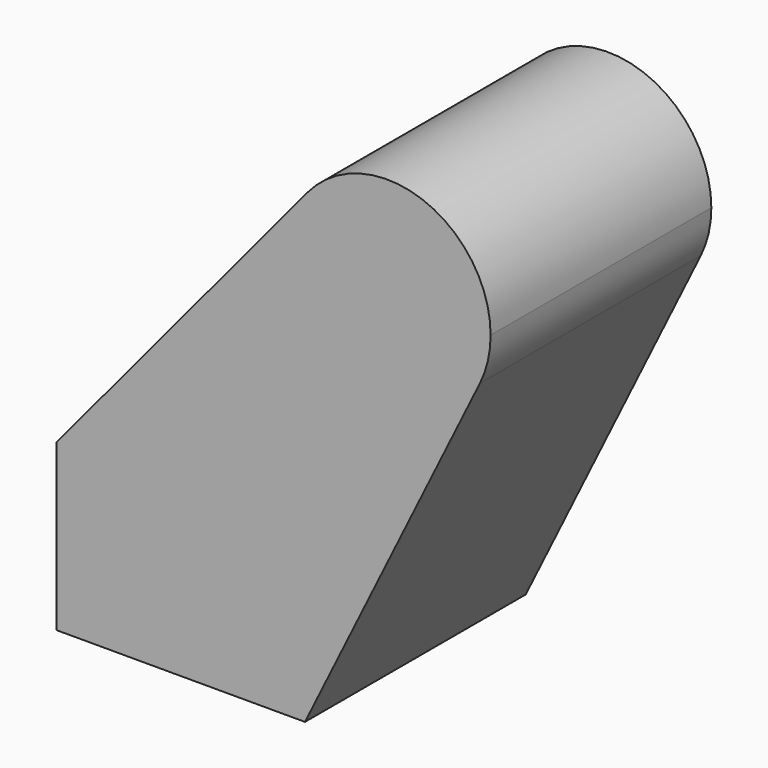
from build123d import *

# Parameters (mm, degrees)
F0_W     = 45.72
F0_H     = 30.48
F1_DEPTH = 25.4


with BuildPart() as f1:
    # F0 (on Front) → F1 (new body, symmetric)
    with BuildSketch(Plane.XZ):
        with BuildLine():
            Line((31.042586, 66.705277), (-15.161877, 11.197543))
            Line((-15.161877, 11.197543), (30.558123, 11.197543))
            Line((30.558123, 11.197543), (30.558123, -19.282457))
            Line((30.558123, -19.282457), (62.77227, 46.098145))
            ThreePointArc((62.77227, 46.098145), (35.30799, 38.541559), (31.042586, 66.705277))
        make_face()
        with Locations((7.698123, -4.042457)):
            Rectangle(F0_W, F0_H)
        with BuildLine():
            ThreePointArc((64.733943, 54.517858), (52.164092, 72.431824), (31.042586, 66.705277))
            ThreePointArc((31.042586, 66.705277), (35.30799, 38.541559), (62.77227, 46.098145))
            ThreePointArc((62.77227, 46.098145), (64.237044, 50.195251), (64.733943, 54.517858))
        make_face()
    extrude(amount=F1_DEPTH, both=True)


solid = f1.part
